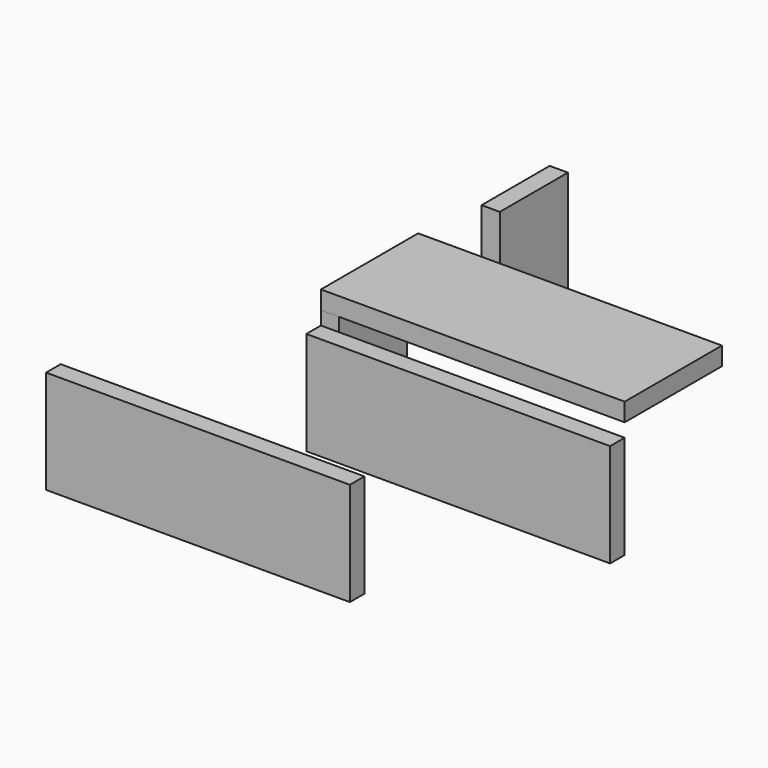
from build123d import *

# Parameters (mm, degrees)
F1_DEPTH  = 5.08
F3_W      = 50
F3_H      = 20
F4_DEPTH  = 3
F5_W      = 50
F5_H      = 17
F6_DEPTH  = 3
F7_W      = 14
F7_H      = 17
F8_DEPTH  = 3
F9_W      = 14
F9_H      = 17
F10_DEPTH = 3
F11_W     = 50
F11_H     = 17
F12_DEPTH = 3


with BuildPart() as f1:
    # F0 (on Top) → F1 (new body)
    with BuildSketch(Plane.XY):
        Polygon((-95.0850173831, 173.3136475086), (0, 0), (49.2023602128, 0), (-43.2423092425, 173.3136475086), align=None)
    extrude(amount=-F1_DEPTH)


with BuildPart() as f4:
    # F3 (on Top) → F4 (new body)
    with BuildSketch(Plane.XY):
        with Locations((25, 10)):
            Rectangle(F3_W, F3_H)
    extrude(amount=F4_DEPTH)


with BuildPart() as f6:
    # F5 (on Front) → F6 (new body)
    with BuildSketch(Plane.XZ):
        with Locations((25, -10.7288680744)):
            Rectangle(F5_W, F5_H)
    extrude(amount=F6_DEPTH)


with BuildPart() as f8:
    # F7 (on Right) → F8 (new body)
    with BuildSketch(Plane.YZ):
        with Locations((7, -8.5)):
            Rectangle(F7_W, F7_H)
    extrude(amount=F8_DEPTH)


with BuildPart() as f10:
    # F9 (on Right) → F10 (new body)
    with BuildSketch(Plane.YZ):
        with Locations((40.0561373681, -6.7274013827)):
            Rectangle(F9_W, F9_H)
    extrude(amount=F10_DEPTH)


with BuildPart() as f12:
    # F11 (on Front) → F12 (new body)
    with BuildSketch(Plane.XZ):
        with Locations((-17.8345059976, -30.2583783558)):
            Rectangle(F11_W, F11_H)
        with Locations((-17.8345059976, -30.2583783558)):
            Rectangle(F11_W, F11_H)
    extrude(amount=F12_DEPTH)


solid = Compound([f4.part, f6.part, f8.part, f10.part, f12.part])
